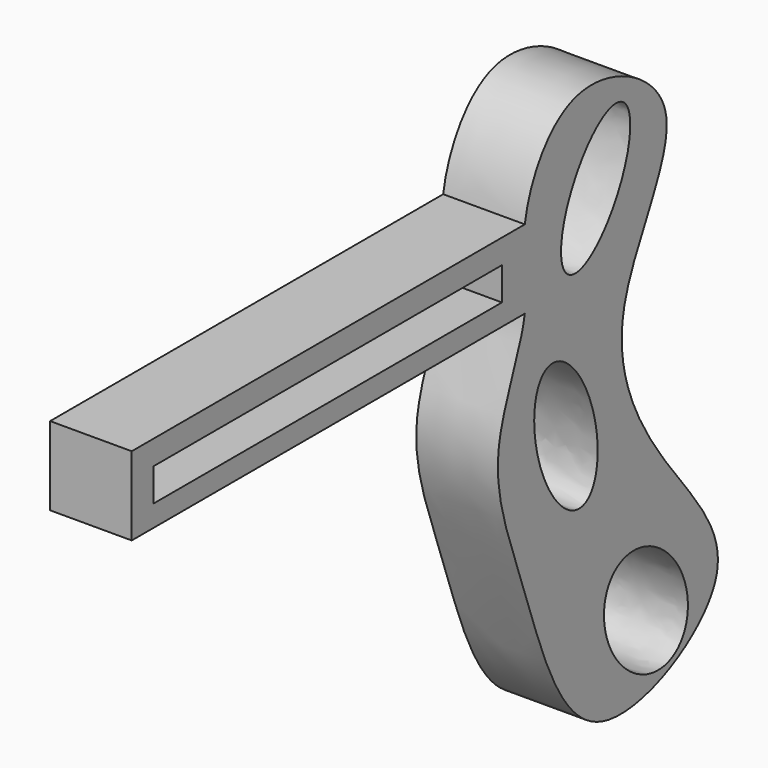
from build123d import *

# Parameters (mm, degrees)
F0_W     = 67.7862479351
F0_H     = 5.1117502153
F1_DEPTH = 12.7


with BuildPart() as f1:
    # F0 (on Right) → F1 (new body)
    with BuildSketch(Plane.YZ):
        with BuildLine():
            Line((0, 24.8920004815), (-76.4539986849, 24.8920004815))
            Line((-76.4539986849, 24.8920004815), (-76.4539986849, 12.6682501286))
            Line((-76.4539986849, 12.6682501286), (0, 12.6682501286))
            Line((0, 12.6682501286), (0, 18.508071043))
            add(Edge.make_bspline(
                [(0, 18.508071043), (-0.1708980343, 20.5168405773), (-0.3493140225, 22.5714156884), (0, 24.8920004815)],
                knots=[0.961128357, 0.961128357, 0.961128357, 0.961128357, 1, 1, 1, 1], degree=3))
        make_face()
        with Locations((-38.3381240536, 18.5578763485)):
            Rectangle(F0_W, F0_H, mode=Mode.SUBTRACT)
        with BuildLine():
            add(Edge.make_bspline(
                [(0, 24.8920004815), (0.8092460696, 30.2680346566), (8.3070469342, 44.2765443995), (36.0144897672, 30.0146526427), (13.2468399874, 5.469219081), (25.5581216311, -18.6881017585), (46.275859714, -39.6025376101), (9.9899825514, -58.06777446), (0.3156669885, -24.5029333825), (-8.4971305908, -4.7767918724), (-0.782365331, 7.704021715), (0, 12.6682501286)],
                knots=[0, 0, 0, 0, 0.090052853, 0.1854147368, 0.2939920012, 0.4043941655, 0.507566836, 0.6149953538, 0.7305421853, 0.8330031766, 0.923894657, 0.923894657, 0.923894657, 0.923894657], degree=3))
            Line((0, 24.8920004815), (0, 18.508071043))
            add(Edge.make_bspline(
                [(0, 12.6682501286), (0.3204960011, 14.701846573), (0.1636968661, 16.5839454744), (0, 18.508071043)],
                knots=[0.923894657, 0.923894657, 0.923894657, 0.923894657, 0.961128357, 0.961128357, 0.961128357, 0.961128357], degree=3))
        make_face()
        with BuildLine():
            add(Edge.make_bspline(
                [(18.0022493005, -29.3370001018), (7.649369334, -36.3321935148), (21.1601898917, -45.1694725707), (34.6710104495, -54.0067516267), (31.5130698583, -38.1742791578), (28.355129267, -22.3418066888), (18.0022493005, -29.3370001018)],
                knots=[0, 0, 0, 2.0943951024, 2.0943951024, 4.1887902048, 4.1887902048, 6.2831853072, 6.2831853072, 6.2831853072], degree=2, weights=[1, 0.5, 1, 0.5, 1, 0.5, 1]))
        make_face(mode=Mode.SUBTRACT)
        with BuildLine():
            add(Edge.make_bspline(
                [(11.3347508013, -18.2245001197), (20.3335588444, -15.4697620684), (10.8335281545, -0.5117559527), (1.3334974647, 14.446250163), (1.8347201115, -3.266494004), (2.3359427583, -20.9792381709), (11.3347508013, -18.2245001197)],
                knots=[0, 0, 0, 2.0943951024, 2.0943951024, 4.1887902048, 4.1887902048, 6.2831853072, 6.2831853072, 6.2831853072], degree=2, weights=[1, 0.5, 1, 0.5, 1, 0.5, 1]))
        make_face(mode=Mode.SUBTRACT)
        with BuildLine():
            add(Edge.make_bspline(
                [(18.8912525773, 34.004252404), (11.300710756, 37.9720362202), (7.4283535497, 21.3196405359), (3.5559963435, 4.6672448516), (15.0188953711, 17.3518567197), (26.4817943986, 30.0364685877), (18.8912525773, 34.004252404)],
                knots=[0, 0, 0, 2.0943951024, 2.0943951024, 4.1887902048, 4.1887902048, 6.2831853072, 6.2831853072, 6.2831853072], degree=2, weights=[1, 0.5, 1, 0.5, 1, 0.5, 1]))
        make_face(mode=Mode.SUBTRACT)
        with BuildLine():
            Line((0, 18.508071043), (0, 24.8920004815))
            add(Edge.make_bspline(
                [(0, 18.508071043), (-0.1708980343, 20.5168405773), (-0.3493140225, 22.5714156884), (0, 24.8920004815)],
                knots=[0.961128357, 0.961128357, 0.961128357, 0.961128357, 1, 1, 1, 1], degree=3))
        make_face()
        with BuildLine():
            add(Edge.make_bspline(
                [(0, 12.6682501286), (0.3204960011, 14.701846573), (0.1636968661, 16.5839454744), (0, 18.508071043)],
                knots=[0.923894657, 0.923894657, 0.923894657, 0.923894657, 0.961128357, 0.961128357, 0.961128357, 0.961128357], degree=3))
            Line((0, 18.508071043), (0, 12.6682501286))
        make_face()
    extrude(amount=F1_DEPTH)


solid = f1.part
